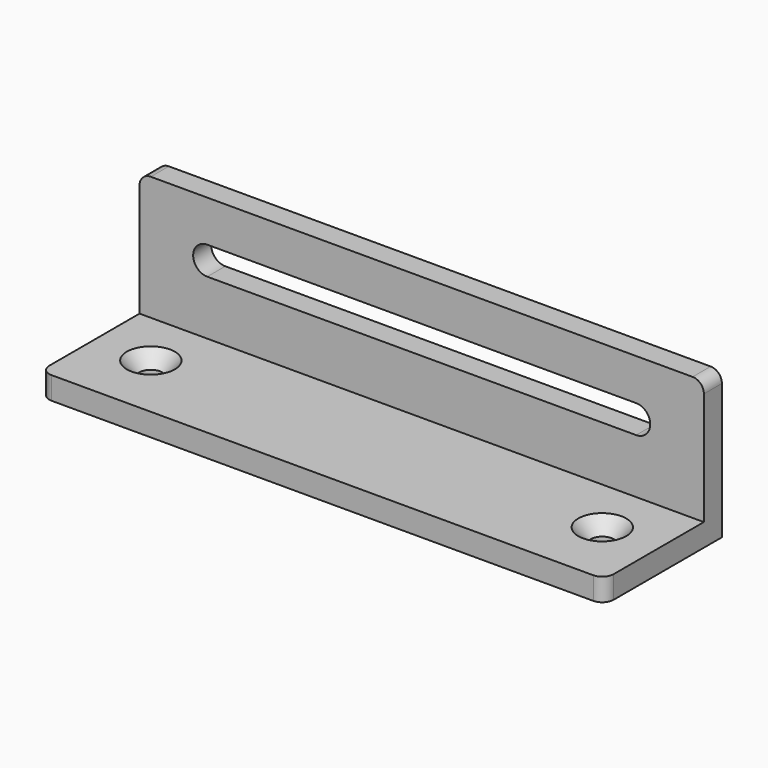
from build123d import *

# Parameters (mm, degrees)
F1_DEPTH       = 158.75
F3_DEPTH       = 6.351
F5_D           = 6.5278
F5_CSINK_D     = 13.4874
F5_CSINK_ANGLE = 82
F6_R           = 3.175


with BuildPart() as f1:
    # F0 (on Right) → F1 (new body)
    with BuildSketch(Plane.YZ):
        Polygon((20.6375, 20.6375), (14.2875, 20.6375), (14.2875, -14.2875), (-20.6375, -14.2875), (-20.6375, -20.6375), (20.6375, -20.6375), align=None)
    extrude(amount=F1_DEPTH)

    # F2 (on face) → F3 (cut, through all)
    with BuildSketch(Plane.XZ.offset(-14.2875)):
        with BuildLine():
            ThreePointArc((19.05, 8.9789), (15.0876, 5.0165), (19.05, 1.0541))
            Line((19.05, 1.0541), (139.7, 1.0541))
            ThreePointArc((139.7, 1.0541), (143.6624, 5.0165), (139.7, 8.9789))
            Line((139.7, 8.9789), (19.05, 8.9789))
        make_face()
    extrude(amount=-F3_DEPTH, mode=Mode.SUBTRACT)

    # F5 (through all)
    with Locations(Plane.XY.offset(-14.2875)):
        with Locations((15.875, -1.5875), (142.875, -1.5875)):
            CounterSinkHole(F5_D / 2, F5_CSINK_D / 2, counter_sink_angle=F5_CSINK_ANGLE)

    # F6
    f6_edges = [f1.edges().sort_by_distance(p)[0] for p in [
        (0, 17.4625, 20.6375),
        (158.75, 17.4625, 20.6375),
        (158.75, -20.6375, -17.4625),
        (0, -20.6375, -17.4625),
    ]]
    fillet(f6_edges, radius=F6_R)


solid = f1.part
